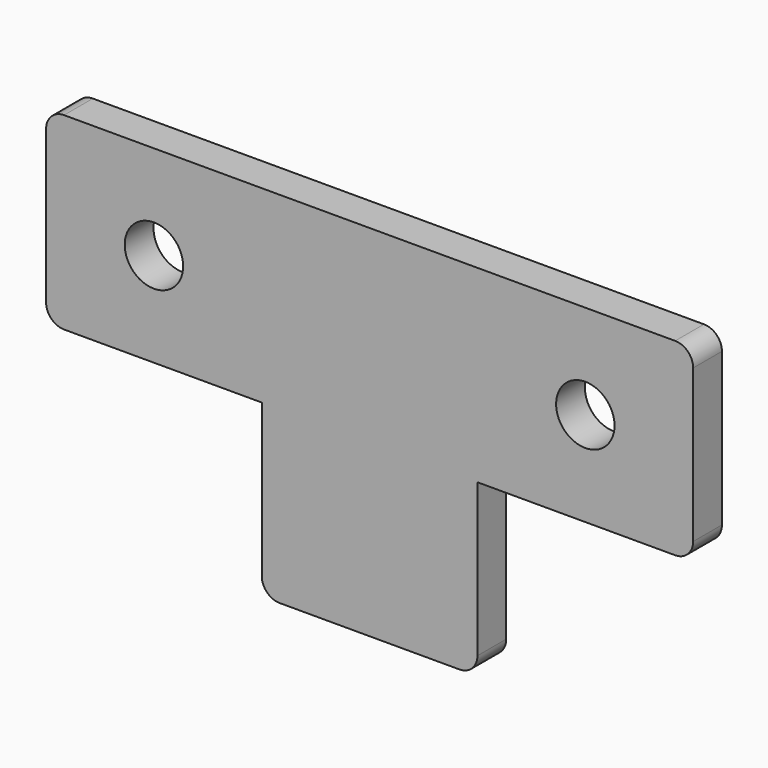
from build123d import *

# Parameters (mm, degrees)
F0_R     = 5.15874
F1_DEPTH = 6.35


with BuildPart() as f1:
    # F0 (on Front) → F1 (new body)
    with BuildSketch(Plane.XZ):
        with BuildLine():
            ThreePointArc((0, 3.175), (0.929936, 0.929936), (3.175, 0))
            Line((3.175, 0), (38.1, 0))
            Line((38.1, 0), (76.2, 0))
            Line((76.2, 0), (111.125, 0))
            ThreePointArc((111.125, 0), (113.370064, 0.929936), (114.3, 3.175))
            Line((114.3, 3.175), (114.3, 30.1625))
            ThreePointArc((114.3, 30.1625), (113.370064, 32.407564), (111.125, 33.3375))
            Line((111.125, 33.3375), (3.175, 33.3375))
            ThreePointArc((3.175, 33.3375), (0.929936, 32.407564), (0, 30.1625))
            Line((0, 30.1625), (0, 3.175))
        make_face()
        with Locations((19.05, 16.66875)):
            Circle(F0_R, mode=Mode.SUBTRACT)
        with Locations((95.25, 16.66875)):
            Circle(F0_R, mode=Mode.SUBTRACT)
        with BuildLine():
            Line((76.2, 0), (38.1, 0))
            Line((38.1, 0), (38.1, -26.9748))
            ThreePointArc((38.1, -26.9748), (39.029936, -29.219864), (41.275, -30.1498))
            Line((41.275, -30.1498), (73.025, -30.1498))
            ThreePointArc((73.025, -30.1498), (75.270064, -29.219864), (76.2, -26.9748))
            Line((76.2, -26.9748), (76.2, 0))
        make_face()
    extrude(amount=F1_DEPTH)


solid = f1.part
